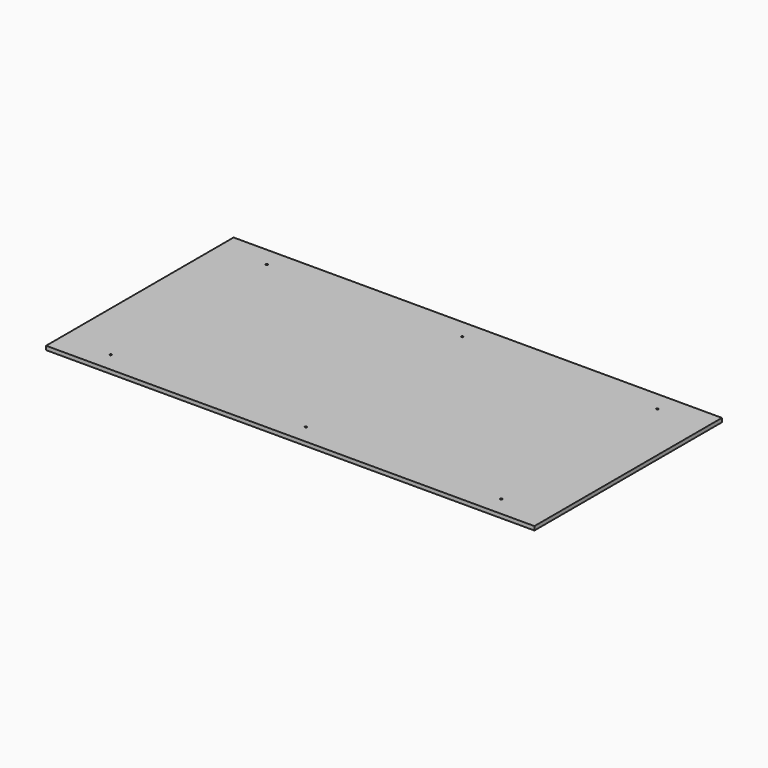
from build123d import *

# Parameters (mm, degrees)
F0_W     = 2500
F0_H     = 1200
F0_R     = 5
F1_DEPTH = 20


with BuildPart() as f1:
    # F0 (on Top) → F1 (new body)
    with BuildSketch(Plane.XY):
        Rectangle(F0_W, F0_H)
        with Locations((-1000, -500)):
            Circle(F0_R, mode=Mode.SUBTRACT)
        with Locations((0, -500)):
            Circle(F0_R, mode=Mode.SUBTRACT)
        with Locations((1000, -500)):
            Circle(F0_R, mode=Mode.SUBTRACT)
        with Locations((-1000, 500)):
            Circle(F0_R, mode=Mode.SUBTRACT)
        with Locations((0, 500)):
            Circle(F0_R, mode=Mode.SUBTRACT)
        with Locations((1000, 500)):
            Circle(F0_R, mode=Mode.SUBTRACT)
    extrude(amount=F1_DEPTH)


solid = f1.part
